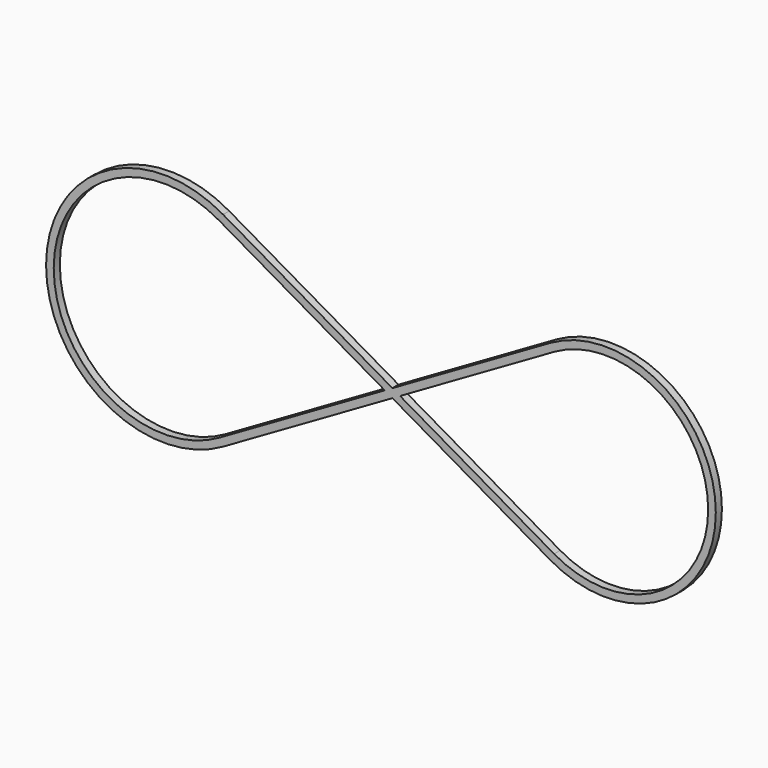
from build123d import *

# Parameters (mm, degrees)
F1_DEPTH = 1


with BuildPart() as f1:
    # F0 (on Front) → F1 (new body)
    with BuildSketch(Plane.XZ):
        with BuildLine():
            Line((1, -0.5773502692), (0, 0))
            Line((0, 0), (1, 0.5773502692))
            Line((1, 0.5773502692), (-21.1506350946, 13.3660254038))
            ThreePointArc((-21.1506350946, 13.3660254038), (-44.3012701892, 0), (-21.1506350946, -13.3660254038))
            Line((-21.1506350946, -13.3660254038), (1, -0.5773502692))
        make_face()
        with BuildLine():
            Line((0, 0), (-21.6506350946, -12.5))
            ThreePointArc((-21.6506350946, -12.5), (-43.3012701892, 0), (-21.6506350946, 12.5))
            Line((-21.6506350946, 12.5), (0, 0))
        make_face(mode=Mode.SUBTRACT)
        Polygon((1, 0.5773502692), (0, 0), (1, -0.5773502692), (2, 0), align=None)
        with BuildLine():
            Line((21.6506350946, 12.5), (1, 0.5773502692))
            Line((1, 0.5773502692), (2, 0))
            Line((2, 0), (1, -0.5773502692))
            Line((1, -0.5773502692), (21.6506350946, -12.5))
            ThreePointArc((21.6506350946, -12.5), (43.3012701892, 0), (21.6506350946, 12.5))
        make_face()
        with BuildLine():
            Line((22.1506350946, -11.6339745962), (2, 0))
            Line((2, 0), (22.1506350946, 11.6339745962))
            ThreePointArc((22.1506350946, 11.6339745962), (42.3012701892, 0), (22.1506350946, -11.6339745962))
        make_face(mode=Mode.SUBTRACT)
    extrude(amount=F1_DEPTH)


solid = f1.part
